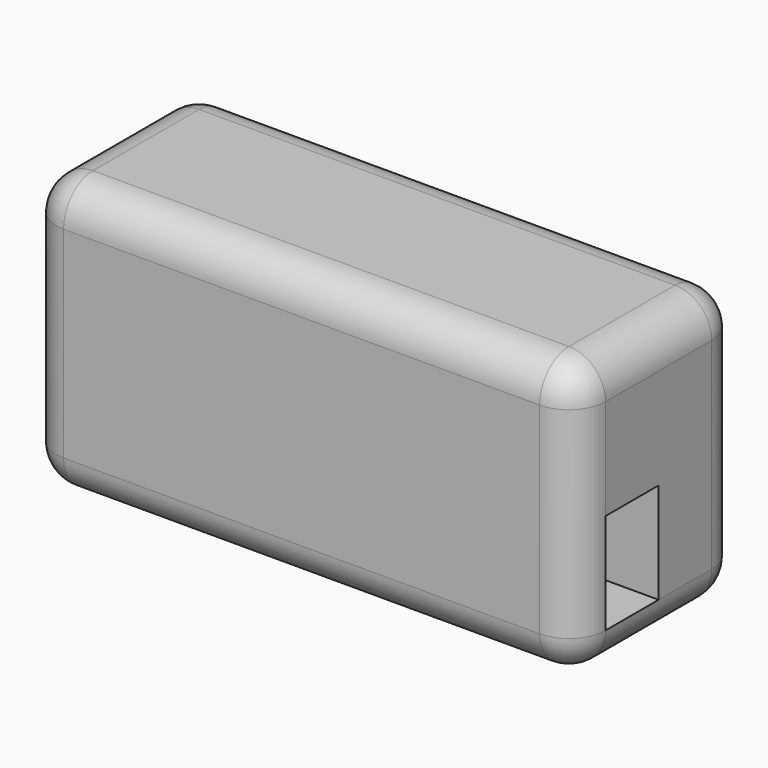
from build123d import *

# Parameters (mm, degrees)
F0_W      = 76.2
F0_H      = 38.1
F0_W_2    = 53.34
F0_H_2    = 19.304
F1_DEPTH  = 12.7
F2_W      = 76.2
F2_H      = 38.1
F3_DEPTH  = 12.7
F4_W      = 53.34
F4_H      = 3.175
F5_DEPTH  = 31.05
F5_FACE_W = 76.2
F5_FACE_H = 3.175
F6_DEPTH  = 7.05
F7_R      = 5.08
F8_W      = 9.2075
F8_H      = 13.97
F9_DEPTH  = 25.4


with BuildPart() as f1:
    # F0 (on Front) → F1 (new body)
    with BuildSketch(Plane.XZ):
        Rectangle(F0_W, F0_H)
        Rectangle(F0_W_2, F0_H_2, mode=Mode.SUBTRACT)
    extrude(amount=F1_DEPTH)

    # F2 (on face) → F3 (join)
    with BuildSketch(Plane.XZ.offset(12.7)):
        Rectangle(F2_W, F2_H)
        Polygon((-26.67, 12), (26.67, 12), (26.67, 9.652), (26.67, -9.652), (26.67, -12), (-26.67, -12), (-26.67, -9.652), (-26.67, 9.652), align=None, mode=Mode.SUBTRACT)
    extrude(amount=F3_DEPTH)

    # F4 (on face) → F5 (join, through all)
    with BuildSketch(Plane(origin=(0, 0, 12), x_dir=(1, 0, 0), z_dir=(0, 0, -1))):
        Polygon((38.1, 22.225), (38.1, 28.575), (-38.1, 28.575), (-38.1, 22.225), (-26.67, 22.225), (-26.67, 25.4), (26.67, 25.4), (26.67, 22.225), align=None)
        with Locations((0, 23.8125)):
            Rectangle(F4_W, F4_H)
    extrude(amount=F5_DEPTH)

    # F5_face (on face) → F6 (join, through all)
    with BuildSketch(Plane(origin=(0, -26.9875, 12), x_dir=(1, 0, 0), z_dir=(0, 0, 1))):
        Rectangle(F5_FACE_W, F5_FACE_H)
    extrude(amount=F6_DEPTH)

    # F7
    f7_edges = [f1.edges().sort_by_distance(p)[0] for p in [
        (0, 0, 19.05),
        (38.1, -14.2875, 19.05),
        (0, -28.575, 19.05),
        (-38.1, -14.2875, 19.05),
        (-38.1, 0, 0),
        (38.1, 0, 0),
        (0, 0, -19.05),
        (38.1, -14.2875, -19.05),
        (-38.1, -14.2875, -19.05),
        (0, -28.575, -19.05),
        (38.1, -28.575, 0),
        (-38.1, -28.575, 0),
    ]]
    fillet(f7_edges, radius=F7_R)

    # F8 (on face) → F9 (cut)
    with BuildSketch(Plane.YZ.offset(38.1)):
        with Locations((-18.89125, -6.985)):
            Rectangle(F8_W, F8_H)
    extrude(amount=-F9_DEPTH, mode=Mode.SUBTRACT)


solid = f1.part
